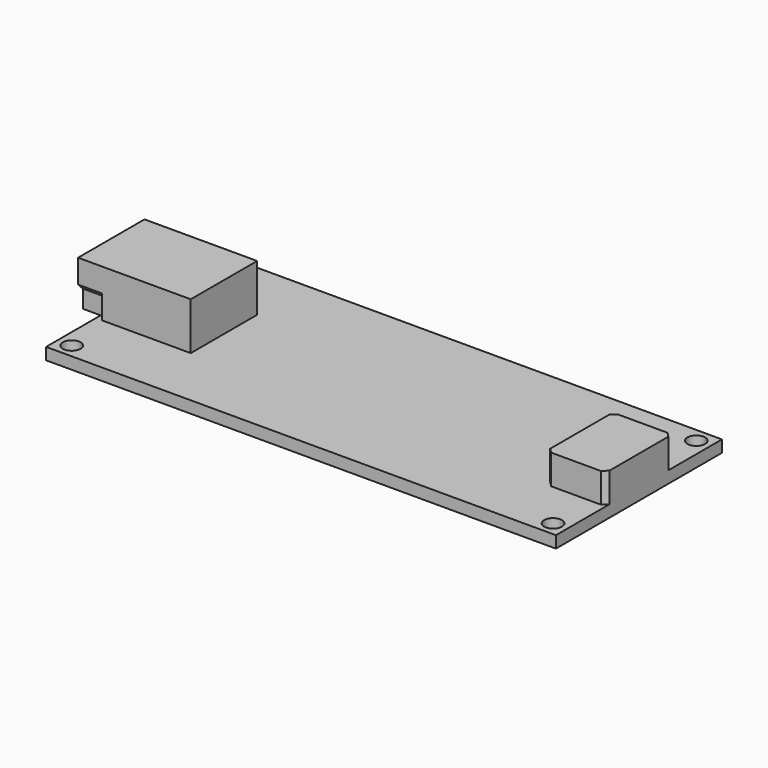
from build123d import *

# Parameters (mm, degrees)
F0_W     = 8
F0_H     = 7
F0_R     = 0.75
F0_W_2   = 5
F1_DEPTH = 1
F0_W_3   = 1.5
F2_DEPTH = 4
F3_DEPTH = 2.5
F4_W     = 4.784234
F4_H     = 1.5
F5_DEPTH = 5
F6_DEPTH = 2
F7_SIZE  = 0.4
F8_SIZE  = 0.4


with BuildPart() as f1:
    # F0 (on Top) → F1 (new body)
    with BuildSketch(Plane.XY):
        with Locations((-17.5, 0)):
            Rectangle(F0_W, F0_H)
        Polygon((21.5, 3.5), (21.5, 8.75), (-21.5, 8.75), (-21.5, 3.5), (-13.5, 3.5), (-13.5, -3.5), (-21.5, -3.5), (-21.5, -8.75), (21.5, -8.75), (21.5, -3.5), (16.5, -3.5), (16.5, 3.5), align=None)
        with Locations((-20.3, -7.55)):
            Circle(F0_R, mode=Mode.SUBTRACT)
        with Locations((20.3, -7.55)):
            Circle(F0_R, mode=Mode.SUBTRACT)
        with Locations((-20.3, 7.55)):
            Circle(F0_R, mode=Mode.SUBTRACT)
        with Locations((20.3, 7.55)):
            Circle(F0_R, mode=Mode.SUBTRACT)
        with Locations((19, 0)):
            Rectangle(F0_W_2, F0_H)
    extrude(amount=-F1_DEPTH)

    # F0 (on Top) → F2 (join)
    with BuildSketch(Plane.XY):
        with Locations((-22.25, 0)):
            Rectangle(F0_W_3, F0_H)
        with Locations((-17.5, 0)):
            Rectangle(F0_W, F0_H)
    extrude(amount=F2_DEPTH)

    # F0 (on Top) → F3 (join)
    with BuildSketch(Plane.XY):
        with Locations((19, 0)):
            Rectangle(F0_W_2, F0_H)
    extrude(amount=F3_DEPTH)

    # F4 (on face) → F5 (cut)
    with BuildSketch(Plane(origin=(-23, 0, 0), x_dir=(0, -1, 0), z_dir=(-1, 0, 0))):
        Polygon((3.4, 3.9), (-3.4, 3.9), (-3.4, 2.041421), (-2.9, 1.541421), (-2.9, 0.1), (2.9, 0.1), (2.9, 1.541421), (3.4, 2.041421), align=None)
        with Locations((0, 2.25)):
            Rectangle(F4_W, F4_H, mode=Mode.SUBTRACT)
    extrude(amount=-F5_DEPTH, mode=Mode.SUBTRACT)

    # F4 (on face) → F6 (cut)
    with BuildSketch(Plane(origin=(-23, 0, 0), x_dir=(0, -1, 0), z_dir=(-1, 0, 0))):
        Polygon((-3, 1.5), (-3.5, 2), (-3.5, 0), (-3, 0), align=None)
        Polygon((3, 1.5), (3, 0), (3.5, 0), (3.5, 2), align=None)
    extrude(amount=-F6_DEPTH, mode=Mode.SUBTRACT)

    # F7
    f7_edges = [f1.edges().sort_by_distance(p)[0] for p in [
        (-20.5, -2.392117, 1.5),
        (-20.5, 2.392117, 1.5),
    ]]
    chamfer(f7_edges, length=F7_SIZE)

    # F8
    f8_edges = [f1.edges().sort_by_distance(p)[0] for p in [
        (21.5, 3.5, 1.25),
        (16.5, 3.5, 1.25),
        (21.5, -3.5, 1.25),
        (16.5, -3.5, 1.25),
    ]]
    chamfer(f8_edges, length=F8_SIZE)


solid = f1.part
